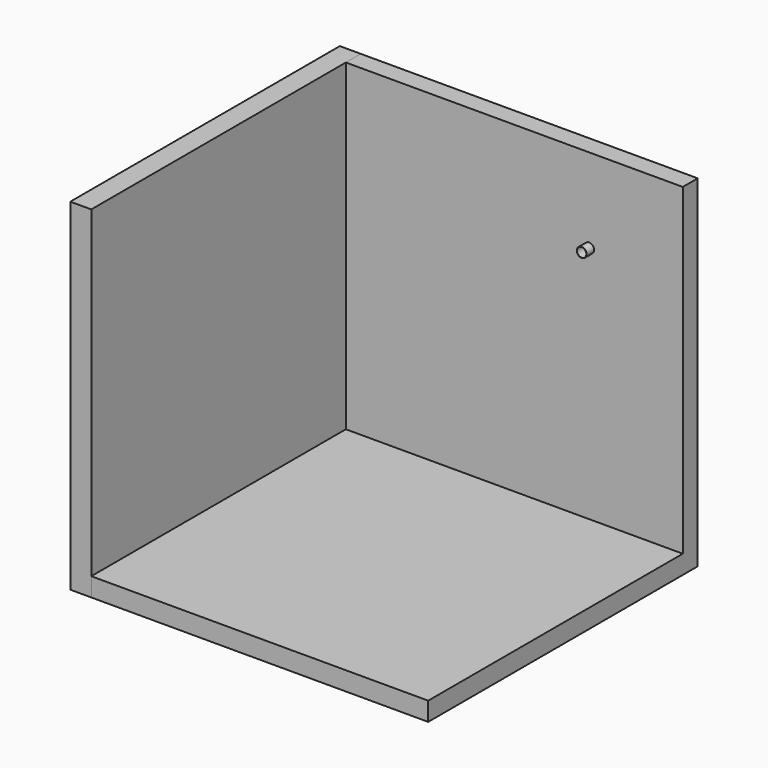
from build123d import *

# Parameters (mm, degrees)
F0_W     = 3657.6
F0_H     = 3505.2
F1_DEPTH = 203.2
F0_H_2   = 203.2
F2_DEPTH = 3657.6
F3_W     = 228.1128064619
F3_H     = 3708.4
F4_DEPTH = 3657.6
F5_R     = 53.34
F5_R_2   = 50.8
F6_DEPTH = 101.6
F7_DEPTH = 406.4


with BuildPart() as f1:
    # F0 (on Front) → F1 (new body)
    with BuildSketch(Plane.XZ):
        with Locations((0, 101.6)):
            Rectangle(F0_W, F0_H)
    extrude(amount=F1_DEPTH)

    # F0 (on Front) → F2 (join)
    with BuildSketch(Plane.XZ):
        with Locations((0, -1752.6)):
            Rectangle(F0_W, F0_H_2)
    extrude(amount=F2_DEPTH)


with BuildPart() as f4:
    # F3 (on face) → F4 (new body)
    with BuildSketch(Plane(origin=(0, 0, 0), x_dir=(-1, 0, 0), z_dir=(0, 1, 0))):
        with Locations((1942.856403231, 0)):
            Rectangle(F3_W, F3_H)
    extrude(amount=-F4_DEPTH)


with BuildPart() as f6:
    # F5 (on face) → F6 (new body)
    with BuildSketch(Plane.XZ.offset(203.2)):
        with Locations((812.8, 939.8)):
            Circle(F5_R)
        with Locations((812.8, 939.8)):
            Circle(F5_R_2, mode=Mode.SUBTRACT)
    extrude(amount=F6_DEPTH)

    # F5 (on face) → F7 (join)
    with BuildSketch(Plane.XZ.offset(203.2)):
        with Locations((812.8, 939.8)):
            Circle(F5_R)
        with Locations((812.8, 939.8)):
            Circle(F5_R_2, mode=Mode.SUBTRACT)
    extrude(amount=-F7_DEPTH)


solid = Compound([f1.part, f4.part, f6.part])
